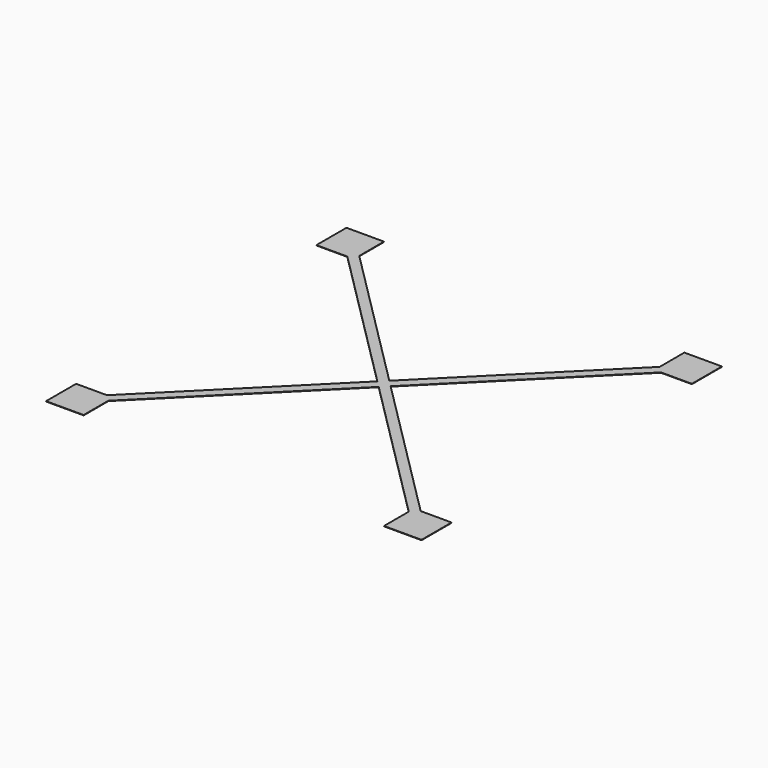
from build123d import *

# Parameters (mm, degrees)
PAD_DEPTH = 0.2


with BuildPart() as part:
    # Sketch → Pad (new body)
    with BuildSketch(Plane.XY):
        Polygon((100, 100), (80, 100), (80, 83.535534), (0, 3.535534), (-80, 83.535534), (-80, 100), (-100, 100), (-100, 80), (-83.535533, 80), (-3.535534, 0), (-83.535534, -80), (-100, -80), (-100, -100), (-80, -100), (-80, -83.535534), (0, -3.535534), (80, -83.535512), (80, -100), (100, -100), (100, -80), (83.535556, -80), (3.535534, 0), (83.535534, 80), (100, 80), align=None)
    extrude(amount=PAD_DEPTH)


solid = part.part
